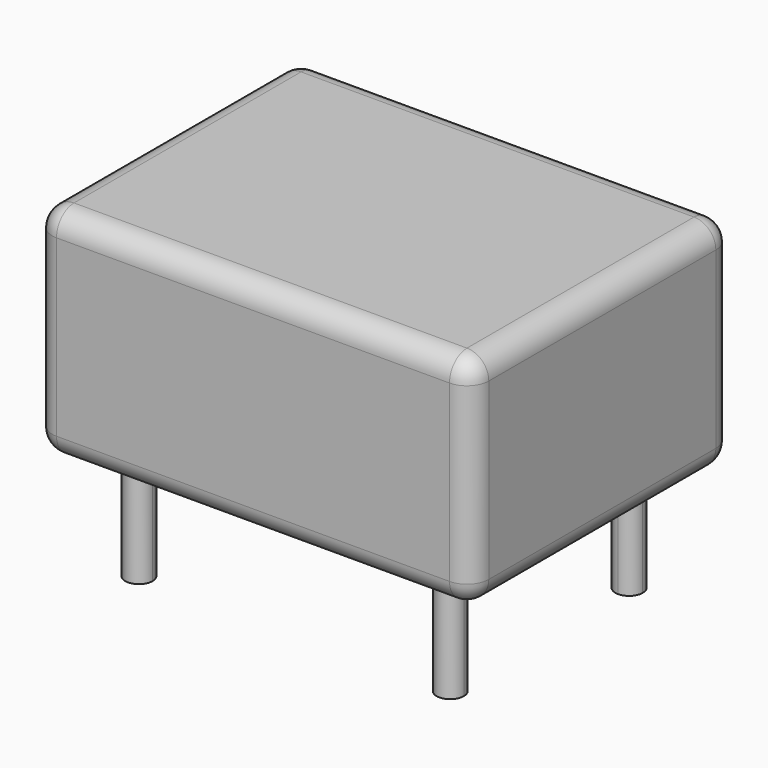
from build123d import *

# Parameters (mm, degrees)
F0_W     = 101.6
F0_H     = 76.2
F1_DEPTH = 50.8
F2_R     = 5.08
F4_DEPTH = 25.4


with BuildPart() as f1:
    # F0 (on Top) → F1 (new body)
    with BuildSketch(Plane.XY):
        Rectangle(F0_W, F0_H)
    extrude(amount=F1_DEPTH)

    # F2
    f2_edges = [f1.edges().sort_by_distance(p)[0] for p in [
        (-50.8, -38.1, 25.4),
        (50.8, -38.1, 25.4),
        (0, -38.1, 0),
        (0, -38.1, 50.8),
        (50.8, 38.1, 25.4),
        (50.8, 0, 0),
        (50.8, 0, 50.8),
        (0, 38.1, 50.8),
        (-50.8, 0, 50.8),
        (-50.8, 38.1, 25.4),
        (0, 38.1, 0),
        (-50.8, 0, 0),
    ]]
    fillet(f2_edges, radius=F2_R)

    # F3 (on face) → F4 (join)
    with BuildSketch(Plane(origin=(0, 0, 0), x_dir=(1, 0, 0), z_dir=(0, 0, -1))):
        with BuildLine():
            Line((36.22162, -26.010673), (33.04662, -26.010673))
            ThreePointArc((33.04662, -26.010673), (36.22162, -29.185673), (39.39662, -26.010673))
            ThreePointArc((39.39662, -26.010673), (38.466684, -23.765609), (36.22162, -22.835673))
            Line((36.22162, -22.835673), (36.22162, -26.010673))
        make_face()
        with BuildLine():
            ThreePointArc((36.22162, -22.835673), (33.976556, -23.765609), (33.04662, -26.010673))
            Line((33.04662, -26.010673), (36.22162, -26.010673))
            Line((36.22162, -26.010673), (36.22162, -22.835673))
        make_face()
        with BuildLine():
            ThreePointArc((33.04662, 26.010673), (33.976556, 23.765609), (36.22162, 22.835673))
            Line((36.22162, 22.835673), (36.22162, 26.010673))
            Line((36.22162, 26.010673), (33.04662, 26.010673))
        make_face()
        with BuildLine():
            Line((36.22162, 26.010673), (36.22162, 22.835673))
            ThreePointArc((36.22162, 22.835673), (38.466684, 23.765609), (39.39662, 26.010673))
            ThreePointArc((39.39662, 26.010673), (36.22162, 29.185673), (33.04662, 26.010673))
            Line((33.04662, 26.010673), (36.22162, 26.010673))
        make_face()
        with BuildLine():
            Line((-36.22162, 26.010673), (-36.22162, 22.835673))
            ThreePointArc((-36.22162, 22.835673), (-33.976556, 23.765609), (-33.04662, 26.010673))
            Line((-33.04662, 26.010673), (-36.22162, 26.010673))
        make_face()
        with BuildLine():
            ThreePointArc((-33.04662, 26.010673), (-38.466684, 28.255738), (-36.22162, 22.835673))
            Line((-36.22162, 22.835673), (-36.22162, 26.010673))
            Line((-36.22162, 26.010673), (-33.04662, 26.010673))
        make_face()
        with BuildLine():
            Line((-36.22162, -26.010673), (-33.04662, -26.010673))
            ThreePointArc((-33.04662, -26.010673), (-33.976556, -23.765609), (-36.22162, -22.835673))
            Line((-36.22162, -22.835673), (-36.22162, -26.010673))
        make_face()
        with BuildLine():
            ThreePointArc((-36.22162, -22.835673), (-38.466684, -28.255738), (-33.04662, -26.010673))
            Line((-33.04662, -26.010673), (-36.22162, -26.010673))
            Line((-36.22162, -26.010673), (-36.22162, -22.835673))
        make_face()
    extrude(amount=F4_DEPTH)


solid = f1.part
